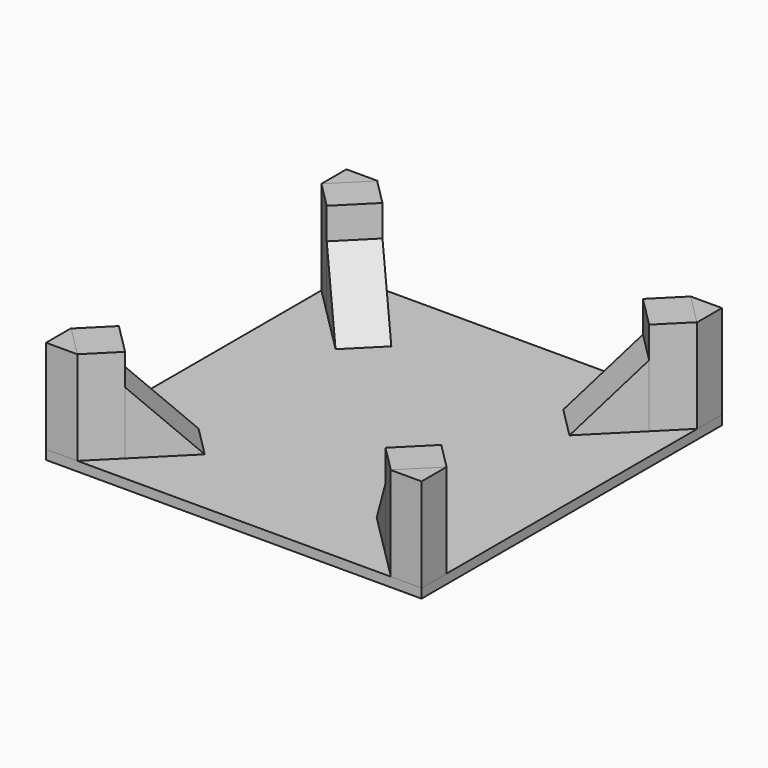
from build123d import *

# Parameters (mm, degrees)
F0_W      = 1200
F0_H      = 1200
F1_DEPTH  = 30
F3_DEPTH  = 300
F7_DEPTH  = 140
F9_ANGLE  = 180
F10_DEPTH = 140
F11_ANGLE = 90
F12_ANGLE = 270
F13_ANGLE = 90
F14_ANGLE = 180
F15_ANGLE = 270
F16_ANGLE = 90
F17_ANGLE = 180
F18_ANGLE = 270


with BuildPart() as f1:
    # F0 (on Top) → F1 (new body)
    with BuildSketch(Plane.XY):
        Rectangle(F0_W, F0_H)
    extrude(amount=-F1_DEPTH)


with BuildPart() as f3:
    # F2 (on face) → F3 (new body)
    with BuildSketch(Plane.XY):
        Polygon((-600, -500), (-600, -600), (-500, -600), align=None)
    extrude(amount=F3_DEPTH)


with BuildPart() as f7:
    # F6 (on face) → F7 (new body)
    with BuildSketch(Plane(origin=(50, -50, 0), x_dir=(-0.7071067812, -0.7071067812, 0), z_dir=(-0.7071067812, 0.7071067812, 0))):
        Polygon((658, 0), (658, 200), (458, 0), align=None)
    extrude(amount=F7_DEPTH)


with BuildPart() as f9_1:
    # F9: copy of F7
    add(f7.part.rotate(Axis((0, 0, 150), (0, 0, 1)), F9_ANGLE))


with BuildPart() as f10:
    # F6 (on face) → F10 (new body)
    with BuildSketch(Plane(origin=(50, -50, 0), x_dir=(-0.7071067812, -0.7071067812, 0), z_dir=(-0.7071067812, 0.7071067812, 0))):
        Polygon((777.8174593052, 200), (777.8174593052, 300), (658, 300), (658, 200), (658, 0), (777.8174593052, 0), align=None)
    extrude(amount=F10_DEPTH)


with BuildPart() as f11_1:
    # F11: copy of F7
    add(f7.part.rotate(Axis((0, 0, 150), (0, 0, 1)), F11_ANGLE))


with BuildPart() as f12_1:
    # F12: copy of F7
    add(f7.part.rotate(Axis((0, 0, 150), (0, 0, 1)), F12_ANGLE))


with BuildPart() as f13_1:
    # F13: copy of F10
    add(f10.part.rotate(Axis((0, 0, 150), (0, 0, 1)), F13_ANGLE))


with BuildPart() as f14_1:
    # F14: copy of F10
    add(f10.part.rotate(Axis((0, 0, 150), (0, 0, 1)), F14_ANGLE))


with BuildPart() as f15_1:
    # F15: copy of F10
    add(f10.part.rotate(Axis((0, 0, 150), (0, 0, 1)), F15_ANGLE))


with BuildPart() as f16_1:
    # F16: copy of F3
    add(f3.part.rotate(Axis((0, 0, 150), (0, 0, 1)), F16_ANGLE))


with BuildPart() as f17_1:
    # F17: copy of F3
    add(f3.part.rotate(Axis((0, 0, 150), (0, 0, 1)), F17_ANGLE))


with BuildPart() as f18_1:
    # F18: copy of F3
    add(f3.part.rotate(Axis((0, 0, 150), (0, 0, 1)), F18_ANGLE))


solid = Compound([f1.part, f3.part, f7.part, f9_1.part, f10.part, f11_1.part, f12_1.part, f13_1.part, f14_1.part, f15_1.part, f16_1.part, f17_1.part, f18_1.part])
